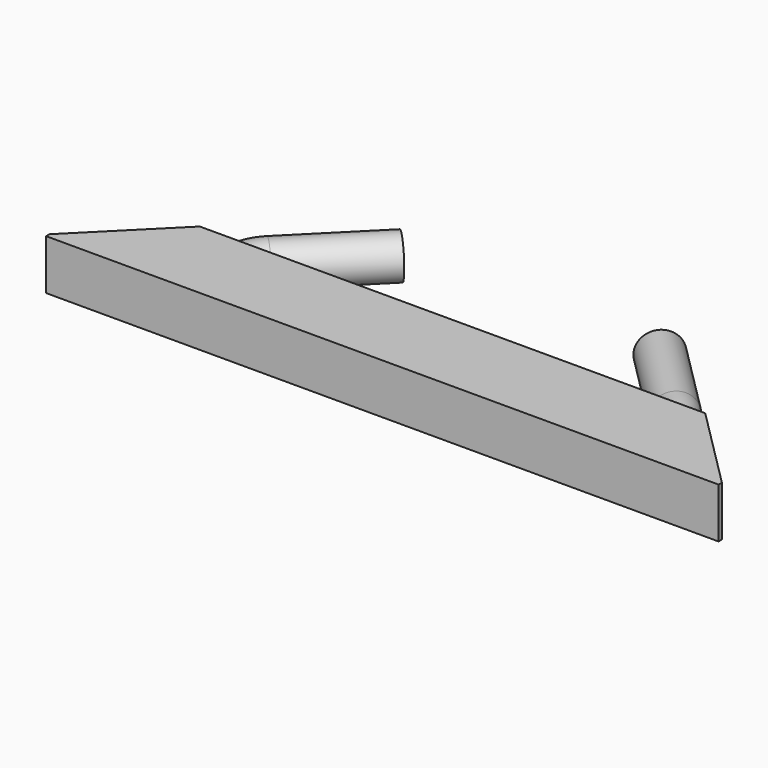
from build123d import *

# Parameters (mm, degrees)
F0_W      = 161
F0_H      = 21
F1_DEPTH  = 12
F2_SIZE   = 20
F3_SIZE   = 20
F5_R      = 5
F6_ANGLE  = 45
F4_R      = 5
F8_ANGLE  = 45
F9_DEPTH  = 25
F10_DEPTH = 25


with BuildPart() as f1:
    # F0 (on Top) → F1 (new body)
    with BuildSketch(Plane.XY):
        with Locations((-80.5, -10.5)):
            Rectangle(F0_W, F0_H)
    extrude(amount=F1_DEPTH)

    # F2
    f2_edges = [f1.edges().sort_by_distance(p)[0] for p in [
        (-161, 0, 6),
    ]]
    chamfer(f2_edges, length=F2_SIZE)

    # F3
    f3_edges = [f1.edges().sort_by_distance(p)[0] for p in [
        (0, 0, 6),
    ]]
    chamfer(f3_edges, length=F3_SIZE)

    # F5 (on face) → F6 (revolve)
    with BuildSketch(Plane(origin=(0, 0, 0), x_dir=(-1, 0, 0), z_dir=(0, 1, 0))):
        with Locations((132.0005953312, 5.6298593991)):
            Circle(F5_R)
    revolve(axis=Axis((-123.356834054, 0, 5.9305), (0, 0, -1)), revolution_arc=F6_ANGLE)

    # F4 (on face) → F8 (revolve)
    with BuildSketch(Plane(origin=(0, 0, 0), x_dir=(-1, 0, 0), z_dir=(0, 1, 0))):
        with Locations((29.4153820723, 5.6298593991)):
            Circle(F4_R)
    revolve(axis=Axis((-37.1628478169, 0, 5.868), (0, 0, 1)), revolution_arc=F8_ANGLE)

    # F9 (add): a face of the model
    f9_faces = [f1.faces().sort_by_distance(p)[0] for p in [
        (-129.4688962681, 6.1120622141, 5.6298593991),
    ]]
    extrude(f9_faces, amount=F9_DEPTH)

    # F10 (add): a face of the model
    f10_faces = [f1.faces().sort_by_distance(p)[0] for p in [
        (-31.6845622519, 5.478285565, 5.6298593991),
    ]]
    extrude(f10_faces, amount=F10_DEPTH)


solid = f1.part
